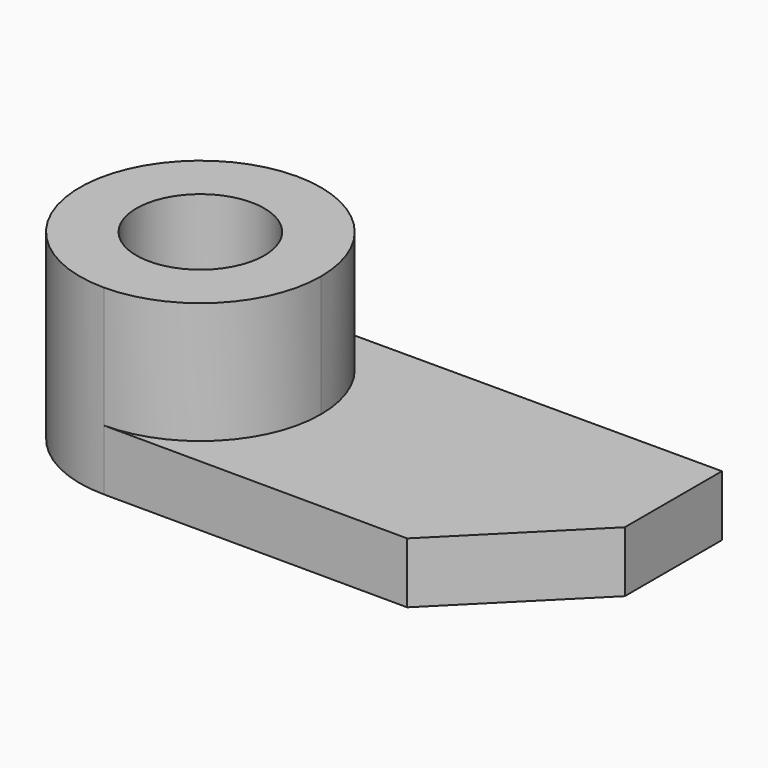
from build123d import *

# Parameters (mm, degrees)
F0_R     = 6.688651
F1_DEPTH = 19.05
F2_DEPTH = 6.35


with BuildPart() as f1:
    # F0 (on Top) → F1 (new body)
    with BuildSketch(Plane.XY):
        with BuildLine():
            ThreePointArc((12.67506, 25.312081), (0.062954, 12.699975), (12.67506, 0.087869))
            ThreePointArc((12.67506, 0.087869), (21.593166, 3.78187), (25.287166, 12.699975))
            ThreePointArc((25.287166, 12.699975), (21.593166, 21.618081), (12.67506, 25.312081))
        make_face()
        with Locations((12.67506, 12.699975)):
            Circle(F0_R, mode=Mode.SUBTRACT)
    extrude(amount=F1_DEPTH)

    # F0 (on Top) → F2 (join)
    with BuildSketch(Plane.XY):
        with BuildLine():
            Line((44.499999, -0.037919), (57.15, 12.612081))
            Line((57.15, 12.612081), (57.15, 25.312081))
            Line((57.15, 25.312081), (12.67506, 25.312081))
            ThreePointArc((12.67506, 25.312081), (21.593166, 21.618081), (25.287166, 12.699975))
            ThreePointArc((25.287166, 12.699975), (21.593166, 3.78187), (12.67506, 0.087869))
            Line((12.67506, 0.087869), (44.499999, -0.037919))
        make_face()
    extrude(amount=F2_DEPTH)


solid = f1.part
